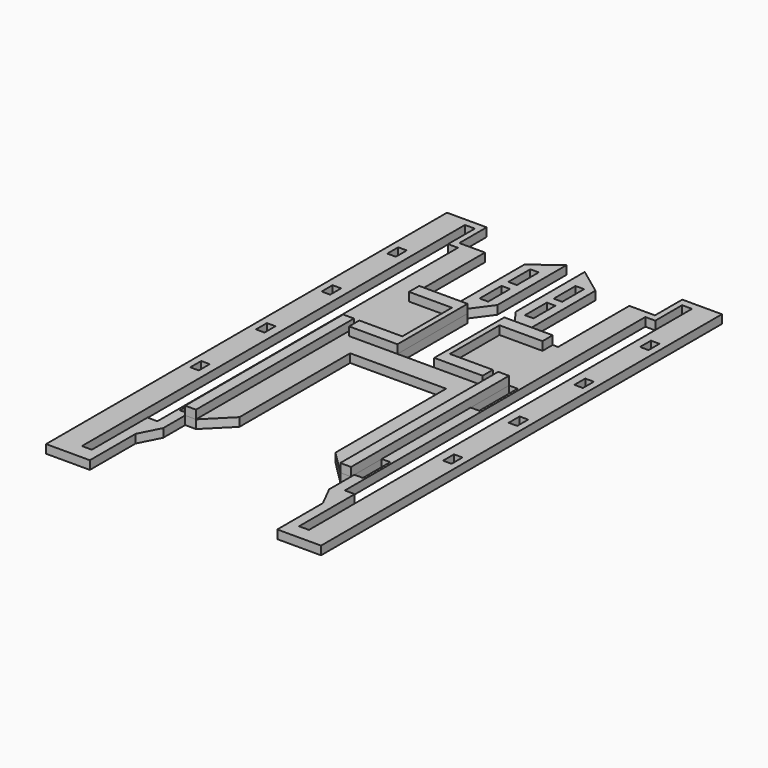
from build123d import *

# Parameters (mm, degrees)
F0_W     = 3.175
F0_H     = 5.08
F0_W_2   = 2.0066
F0_H_2   = 4.7498
F0_W_3   = 1.999996
F0_H_3   = 4.7500032
F0_H_4   = 3.175
F1_DEPTH = 3.175
F2_DEPTH = 3.175


with BuildPart() as f1:
    # F0 (on Top) → F1 (new body)
    with BuildSketch(Plane.XY):
        Polygon((-57.593992, 73.3300032), (-53.594, 73.3300032), (-53.594, 96.3678032), (-53.594, 101.1176032), (-53.594, 134.1682225466), (-63.1263878722, 134.1682225466), (-63.1263878722, 146.8389332294), (-77.8500348, 146.8389332294), (-77.8500348, -30.2285756916), (-68.9600348, -30.2285756916), (-68.9600348, 0), (-68.9600348, 24.5148862), (-68.9600348, 144.0596636616), (-65.2770348, 144.0596636616), (-65.2770348, 131.6107958555), (-61.5940348, 131.6107958555), (-61.5940348, 73.3300032), (-60.768992, 73.3300032), align=None)
        with Locations((-73.7225348, 27.0548862)):
            Rectangle(F0_W, F0_H, mode=Mode.SUBTRACT)
        with Locations((-73.7225348, 57.5348862)):
            Rectangle(F0_W, F0_H, mode=Mode.SUBTRACT)
        with Locations((-73.7225348, 88.0148862)):
            Rectangle(F0_W, F0_H, mode=Mode.SUBTRACT)
        with Locations((-73.7225348, 118.4948862)):
            Rectangle(F0_W, F0_H, mode=Mode.SUBTRACT)
        Polygon((-53.594, 0), (-53.594, 68.58), (-53.594, 73.3300032), (-57.593992, 73.3300032), (-57.593992, 55.5500032), (-57.593992, 14.2394178), (-57.593992, 1.5394178), (-57.593992, 0), align=None)
        Polygon((-61.5940348, 0), (-57.593992, 0), (-57.593992, 1.5394178), (-60.768992, 1.5394178), (-60.768992, 14.2394178), (-57.593992, 14.2394178), (-57.593992, 55.5500032), (-60.768992, 55.5500032), (-60.768992, 73.3300032), (-61.5940348, 73.3300032), align=None)
        Polygon((-57.593992, -10.1604700894), (-57.593992, 0), (-61.5940348, -7.9003575384), (-65.2770348, -7.9003575384), (-65.2770348, -33.7403363384), (-65.2770348, -39.24895823), (-61.5940348, -39.24895823), (-61.5940348, -18.0608276278), align=None)
        Polygon((-61.5940348, -7.9003575384), (-57.593992, 0), (-61.5940348, 0), align=None)
        Polygon((-65.2770348, -39.24895823), (-65.2770348, -33.7403363384), (-68.9600348, -33.7403363384), (-68.9600348, -30.2285756916), (-77.8500348, -30.2285756916), (-77.8500348, -39.24895823), align=None)
        Polygon((-51.594004, 68.58), (-53.594, 68.58), (-53.594, 0), (-44.6137438789, 8.9802561211), (-44.6137438789, 60.3592395782), (-44.6137438789, 68.58), align=None)
        Polygon((-33.6244356733, 68.58), (-44.6137438789, 68.58), (-44.6137438789, 60.3592395782), (-26.797, 60.3592395782), (-26.797, 68.58), align=None)
        Polygon((-51.594004, 73.3300032), (-51.594004, 68.58), (-44.6137438789, 68.58), (-33.6244356733, 68.58), (-33.6244356733, 90.795443326), (-33.6244356733, 101.1176032), (-36.7994356733, 101.1176032), (-39.9744356733, 101.1176032), (-51.5874, 101.1176032), (-51.5874, 96.3678032), (-35.6362, 96.3678032), (-35.6362, 73.3300032), align=None)
        Polygon((-53.594, 96.3678032), (-53.594, 73.3300032), (-51.594004, 73.3300032), (-35.6362, 73.3300032), (-35.6362, 96.3678032), (-51.5874, 96.3678032), align=None)
        with Locations((-52.5907, 98.7427032)):
            Rectangle(F0_W_2, F0_H_2)
        with Locations((-52.594002, 70.9550016)):
            Rectangle(F0_W_3, F0_H_3)
        Polygon((-26.797, 68.58), (-26.797, 60.3592395782), (-8.9802561211, 60.3592395782), (-8.9802561211, 68.58), (-19.9695643267, 68.58), align=None)
        Polygon((-8.9802561211, 8.9802561211), (0, 0), (0, 68.58), (-1.999996, 68.58), (-8.9802561211, 68.58), (-8.9802561211, 60.3592395782), align=None)
        Polygon((-19.9695643267, 90.795443326), (-19.9695643267, 68.58), (-8.9802561211, 68.58), (-1.999996, 68.58), (-1.999996, 73.3300032), (-17.9578, 73.3300032), (-17.9578, 96.3678032), (-2.0066, 96.3678032), (-2.0066, 101.1176032), (-13.6195643267, 101.1176032), (-16.7945643267, 101.1176032), (-19.9695643267, 101.1176032), align=None)
        Polygon((-1.999996, 73.3300032), (0, 73.3300032), (0, 96.3678032), (-2.0066, 96.3678032), (-17.9578, 96.3678032), (-17.9578, 73.3300032), align=None)
        with Locations((-1.0033, 98.7427032)):
            Rectangle(F0_W_2, F0_H_2)
        with Locations((-0.999998, 70.9550016)):
            Rectangle(F0_W_3, F0_H_3)
        Polygon((0, 68.58), (0, 0), (3.999992, 0), (3.999992, 1.5394178), (3.999992, 14.2394178), (3.999992, 55.5500032), (3.999992, 73.3300032), (0, 73.3300032), align=None)
        Polygon((0, 96.3678032), (0, 73.3300032), (3.999992, 73.3300032), (7.174992, 73.3300032), (8.0000348, 73.3300032), (8.0000348, 131.6107958555), (11.6830348, 131.6107958555), (11.6830348, 144.0596636616), (15.3660348, 144.0596636616), (15.3660348, 24.5148862), (15.3660348, 0), (15.3660348, -30.2285756916), (24.2560348, -30.2285756916), (24.2560348, 146.8389332294), (9.5323878722, 146.8389332294), (9.5323878722, 134.1682225466), (0, 134.1682225466), (0, 101.1176032), align=None)
        with Locations((20.1285348, 27.0548862)):
            Rectangle(F0_W, F0_H, mode=Mode.SUBTRACT)
        with Locations((20.1285348, 57.5348862)):
            Rectangle(F0_W, F0_H, mode=Mode.SUBTRACT)
        with Locations((20.1285348, 88.0148862)):
            Rectangle(F0_W, F0_H, mode=Mode.SUBTRACT)
        with Locations((20.1285348, 118.4948862)):
            Rectangle(F0_W, F0_H, mode=Mode.SUBTRACT)
        Polygon((3.999992, 1.5394178), (3.999992, 0), (8.0000348, 0), (8.0000348, 73.3300032), (7.174992, 73.3300032), (7.174992, 55.5500032), (3.999992, 55.5500032), (3.999992, 14.2394178), (7.174992, 14.2394178), (7.174992, 1.5394178), align=None)
        Polygon((15.3660348, -33.7403363384), (11.6830348, -33.7403363384), (11.6830348, -39.24895823), (24.2560348, -39.24895823), (24.2560348, -30.2285756916), (15.3660348, -30.2285756916), align=None)
        Polygon((8.0000348, -7.9003575384), (3.999992, 0), (3.999992, -10.1604700894), (8.0000348, -18.0608276278), (8.0000348, -39.24895823), (11.6830348, -39.24895823), (11.6830348, -33.7403363384), (11.6830348, -7.9003575384), align=None)
        Polygon((8.0000348, 0), (3.999992, 0), (8.0000348, -7.9003575384), align=None)
        Polygon((-36.7994356733, 110.6742616482), (-36.7994356733, 101.6604336215), (-30.1954356733, 110.6742616482), (-33.6244356733, 110.6742616482), align=None)
        Polygon((-39.9744356733, 135.4787051678), (-39.9744356733, 101.1176032), (-36.7994356733, 101.1176032), (-36.7994356733, 101.6604336215), (-36.7994356733, 110.6742616482), (-36.7994356733, 120.8342616482), (-36.7994356733, 124.0092616482), (-36.7994356733, 134.1692616482), (-33.6244356733, 134.1692616482), (-33.6244356733, 124.0092616482), (-33.6244356733, 120.8342616482), (-33.6244356733, 110.6742616482), (-30.1954356733, 110.6742616482), (-30.1954356733, 142.732039094), align=None)
        with Locations((-35.2119356733, 122.4217616482)):
            Rectangle(F0_W, F0_H_4)
        with Locations((-18.3820643267, 122.4217616482)):
            Rectangle(F0_W, F0_H_4)
        Polygon((-16.7945643267, 101.6604336215), (-16.7945643267, 101.1176032), (-13.6195643267, 101.1176032), (-13.6195643267, 135.4787051678), (-23.3985643267, 142.732039094), (-23.3985643267, 110.6742616482), (-19.9695643267, 110.6742616482), (-19.9695643267, 120.8342616482), (-19.9695643267, 124.0092616482), (-19.9695643267, 134.1692616482), (-16.7945643267, 134.1692616482), (-16.7945643267, 124.0092616482), (-16.7945643267, 120.8342616482), (-16.7945643267, 110.6742616482), align=None)
        Polygon((-23.3985643267, 110.6742616482), (-16.7945643267, 101.6604336215), (-16.7945643267, 110.6742616482), (-19.9695643267, 110.6742616482), align=None)
    extrude(amount=-F1_DEPTH)


with BuildPart() as f2:
    # F0 (on Top) → F2 (new body)
    with BuildSketch(Plane.XY):
        Polygon((0, 68.58), (0, 0), (3.999992, 0), (3.999992, 1.5394178), (3.999992, 14.2394178), (3.999992, 55.5500032), (3.999992, 73.3300032), (0, 73.3300032), align=None)
    extrude(amount=F2_DEPTH)


with BuildPart() as f2b:
    # F0 (on Top) → F2, piece 2 (new body)
    with BuildSketch(Plane.XY):
        Polygon((-19.9695643267, 90.795443326), (-19.9695643267, 68.58), (-8.9802561211, 68.58), (-1.999996, 68.58), (-1.999996, 73.3300032), (-17.9578, 73.3300032), (-17.9578, 96.3678032), (-2.0066, 96.3678032), (-2.0066, 101.1176032), (-13.6195643267, 101.1176032), (-16.7945643267, 101.1176032), (-19.9695643267, 101.1176032), align=None)
    extrude(amount=F2_DEPTH)


with BuildPart() as f2c:
    # F0 (on Top) → F2, piece 3 (new body)
    with BuildSketch(Plane.XY):
        Polygon((-51.594004, 73.3300032), (-51.594004, 68.58), (-44.6137438789, 68.58), (-33.6244356733, 68.58), (-33.6244356733, 90.795443326), (-33.6244356733, 101.1176032), (-36.7994356733, 101.1176032), (-39.9744356733, 101.1176032), (-51.5874, 101.1176032), (-51.5874, 96.3678032), (-35.6362, 96.3678032), (-35.6362, 73.3300032), align=None)
    extrude(amount=F2_DEPTH)


with BuildPart() as f2d:
    # F0 (on Top) → F2, piece 4 (new body)
    with BuildSketch(Plane.XY):
        Polygon((-53.594, 0), (-53.594, 68.58), (-53.594, 73.3300032), (-57.593992, 73.3300032), (-57.593992, 55.5500032), (-57.593992, 14.2394178), (-57.593992, 1.5394178), (-57.593992, 0), align=None)
    extrude(amount=F2_DEPTH)


solid = Compound([f1.part, f2.part, f2b.part, f2c.part, f2d.part])
